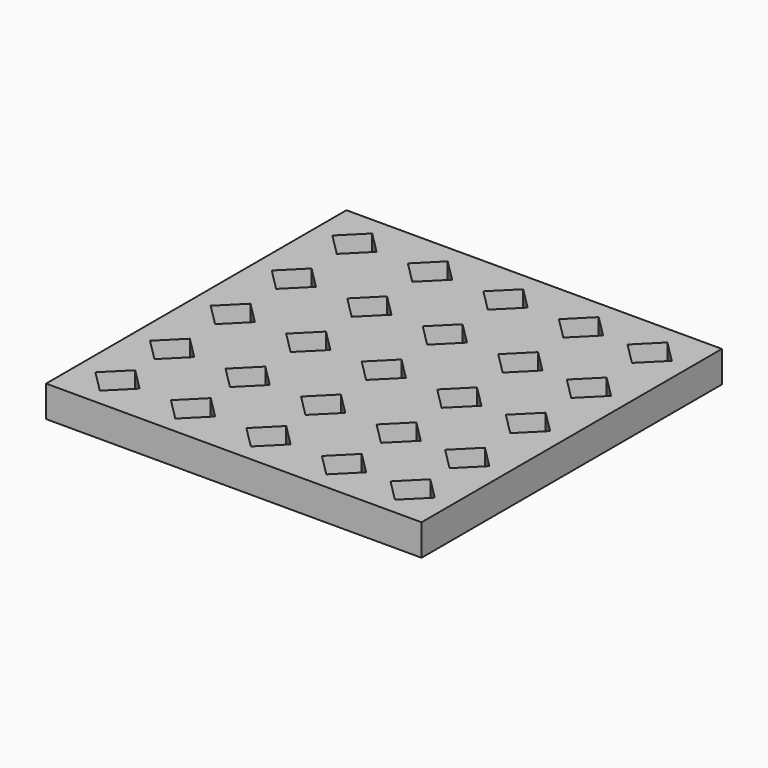
from build123d import *

# Parameters (mm, degrees)
F0_W     = 152.4
F0_H     = 152.4
F1_DEPTH = 12.7


with BuildPart() as f1:
    # F0 (on Top) → F1 (new body)
    with BuildSketch(Plane.XY):
        with Locations((76.2, 76.2)):
            Rectangle(F0_W, F0_H)
        Polygon((16.345332, 24.800697), (25.316621, 15.811483), (16.345332, 6.822268), (7.368064, 15.805512), (7.374039, 15.811483), (7.368064, 15.817454), align=None, mode=Mode.SUBTRACT)
        Polygon((16.345333, 52.520424), (25.316622, 43.53121), (16.345333, 34.541995), (7.368065, 43.525238), (7.374041, 43.53121), (7.368065, 43.537181), align=None, mode=Mode.SUBTRACT)
        Polygon((55.959203, 15.811483), (55.965178, 15.805512), (46.98791, 6.822268), (38.016621, 15.811483), (46.98791, 24.800697), (55.965178, 15.817454), align=None, mode=Mode.SUBTRACT)
        Polygon((77.642446, 24.800697), (86.613735, 15.811483), (77.642446, 6.822268), (68.665178, 15.805512), (68.671153, 15.811483), (68.665178, 15.817454), align=None, mode=Mode.SUBTRACT)
        Polygon((108.285023, 6.822268), (99.313735, 15.811483), (108.285023, 24.800697), (117.262291, 15.817454), (117.256316, 15.811483), (117.262291, 15.805512), align=None, mode=Mode.SUBTRACT)
        Polygon((145.104813, 15.793557), (145.110789, 15.787586), (136.133521, 6.804342), (127.162232, 15.793557), (136.133521, 24.782771), (145.110789, 15.799528), align=None, mode=Mode.SUBTRACT)
        Polygon((55.959204, 43.53121), (55.965179, 43.525238), (46.987911, 34.541995), (38.016622, 43.53121), (46.987911, 52.520424), (55.965179, 43.537181), align=None, mode=Mode.SUBTRACT)
        Polygon((77.642447, 52.520424), (86.613736, 43.53121), (77.642447, 34.541995), (68.665179, 43.525238), (68.671154, 43.53121), (68.665179, 43.537181), align=None, mode=Mode.SUBTRACT)
        Polygon((108.285025, 34.541995), (99.313736, 43.53121), (108.285025, 52.520424), (117.262293, 43.537181), (117.256317, 43.53121), (117.262293, 43.525238), align=None, mode=Mode.SUBTRACT)
        Polygon((145.104815, 43.513284), (145.11079, 43.507312), (136.133522, 34.524069), (127.162233, 43.513284), (136.133522, 52.502498), (145.11079, 43.519255), align=None, mode=Mode.SUBTRACT)
        Polygon((16.345333, 83.289459), (25.316622, 74.300244), (16.345333, 65.31103), (7.368065, 74.294273), (7.374041, 74.300244), (7.368065, 74.306215), align=None, mode=Mode.SUBTRACT)
        Polygon((16.345333, 114.266112), (25.316622, 105.276898), (16.345333, 96.287683), (7.368065, 105.270927), (7.374041, 105.276898), (7.368065, 105.282869), align=None, mode=Mode.SUBTRACT)
        Polygon((25.316622, 136.045932), (16.345333, 127.056718), (7.368065, 136.039961), (7.374041, 136.045932), (7.368065, 136.051904), (16.345333, 145.035147), align=None, mode=Mode.SUBTRACT)
        Polygon((38.016622, 74.300244), (46.987911, 83.289459), (55.965179, 74.306215), (55.959204, 74.300244), (55.965179, 74.294273), (46.987911, 65.31103), align=None, mode=Mode.SUBTRACT)
        Polygon((68.665179, 74.306215), (77.642447, 83.289459), (86.613736, 74.300244), (77.642447, 65.31103), (68.665179, 74.294273), (68.671154, 74.300244), align=None, mode=Mode.SUBTRACT)
        Polygon((46.987911, 96.287683), (38.016622, 105.276898), (46.987911, 114.266112), (55.965179, 105.282869), (55.959204, 105.276898), (55.965179, 105.270927), align=None, mode=Mode.SUBTRACT)
        Polygon((77.642447, 114.266112), (86.613736, 105.276898), (77.642447, 96.287683), (68.665179, 105.270927), (68.671154, 105.276898), (68.665179, 105.282869), align=None, mode=Mode.SUBTRACT)
        Polygon((108.285025, 65.31103), (99.313736, 74.300244), (108.285025, 83.289459), (117.262293, 74.306215), (117.256317, 74.300244), (117.262293, 74.294273), align=None, mode=Mode.SUBTRACT)
        Polygon((136.133522, 65.328956), (127.162233, 74.31817), (136.133522, 83.307385), (145.11079, 74.324141), (145.104815, 74.31817), (145.11079, 74.312199), align=None, mode=Mode.SUBTRACT)
        Polygon((108.285025, 114.266112), (117.262293, 105.282869), (117.256317, 105.276898), (117.262293, 105.270927), (108.285025, 96.287683), (99.313736, 105.276898), align=None, mode=Mode.SUBTRACT)
        Polygon((136.133522, 114.248186), (145.11079, 105.264943), (145.104815, 105.258972), (145.11079, 105.253001), (136.133522, 96.269757), (127.162233, 105.258972), align=None, mode=Mode.SUBTRACT)
        Polygon((46.987911, 127.056718), (38.016622, 136.045932), (46.987911, 145.035147), (55.965179, 136.051904), (55.959204, 136.045932), (55.965179, 136.039961), align=None, mode=Mode.SUBTRACT)
        Polygon((77.642447, 127.056718), (68.665179, 136.039961), (68.671154, 136.045932), (68.665179, 136.051904), (77.642447, 145.035147), (86.613736, 136.045932), align=None, mode=Mode.SUBTRACT)
        Polygon((108.285025, 127.056718), (99.313736, 136.045932), (108.285025, 145.035147), (117.262293, 136.051904), (117.256317, 136.045932), (117.262293, 136.039961), align=None, mode=Mode.SUBTRACT)
        Polygon((136.133522, 127.074644), (127.162233, 136.063858), (136.133522, 145.053073), (145.11079, 136.06983), (145.104815, 136.063858), (145.11079, 136.057887), align=None, mode=Mode.SUBTRACT)
    extrude(amount=F1_DEPTH)


solid = f1.part
